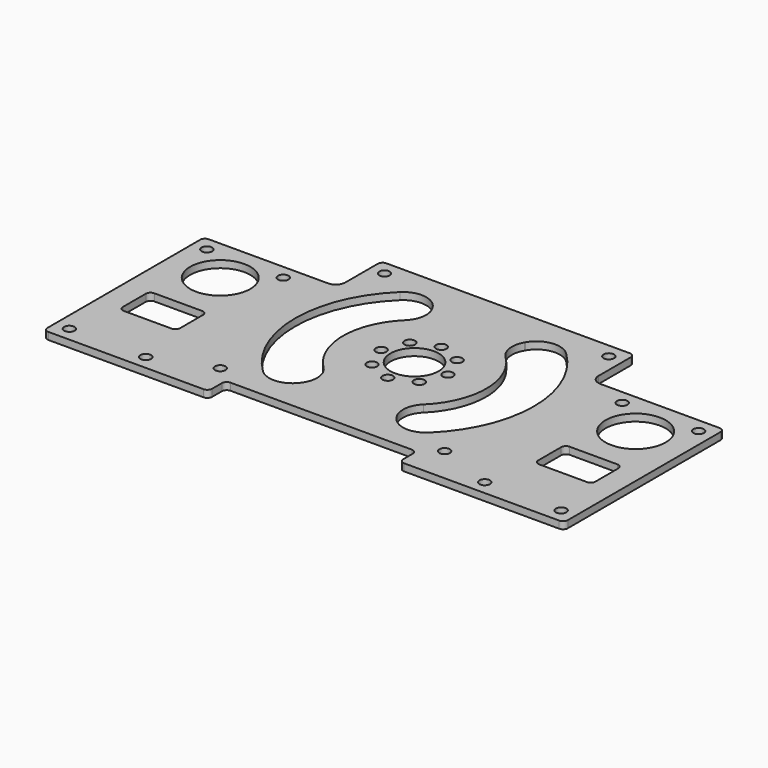
from build123d import *

# Parameters (mm, degrees)
F0_W     = 109
F0_H     = 70
F0_R     = 1.1
F0_R_2   = 6.3
F1_DEPTH = 1.5
F2_R     = 5.05
F2_R_2   = 1.1
F2_W     = 53
F2_H     = 10.5
F2_W_2   = 40
F2_H_2   = 10.5680569839
F3_DEPTH = 1.5
F4_W     = 34.5
F4_H     = 6
F5_DEPTH = 1.5
F6_R     = 1


with BuildPart() as f1:
    # F0 (on Top) → F1 (new body)
    with BuildSketch(Plane.XY):
        Rectangle(F0_W, F0_H)
        with Locations((-51.5, -26)):
            Circle(F0_R, mode=Mode.SUBTRACT)
        with Locations((-35.5, -26)):
            Circle(F0_R, mode=Mode.SUBTRACT)
        with Locations((-23.5, -21.5)):
            Circle(F0_R, mode=Mode.SUBTRACT)
        with BuildLine():
            ThreePointArc((-37.5, -14.5), (-37.7928932188, -15.2071067812), (-38.5, -15.5))
            Line((-38.5, -15.5), (-48.5, -15.5))
            ThreePointArc((-48.5, -15.5), (-49.2071067812, -15.2071067812), (-49.5, -14.5))
            Line((-49.5, -14.5), (-49.5, -8.5))
            ThreePointArc((-49.5, -8.5), (-49.2071067812, -7.7928932188), (-48.5, -7.5))
            Line((-48.5, -7.5), (-38.5, -7.5))
            ThreePointArc((-38.5, -7.5), (-37.7928932188, -7.7928932188), (-37.5, -8.5))
            Line((-37.5, -8.5), (-37.5, -14.5))
        make_face(mode=Mode.SUBTRACT)
        with Locations((23.5, -21.5)):
            Circle(F0_R, mode=Mode.SUBTRACT)
        with Locations((35.5, -26)):
            Circle(F0_R, mode=Mode.SUBTRACT)
        with Locations((51.5, -26)):
            Circle(F0_R, mode=Mode.SUBTRACT)
        with BuildLine():
            Line((38.5, -7.5), (48.5, -7.5))
            ThreePointArc((48.5, -7.5), (49.2071067812, -7.7928932188), (49.5, -8.5))
            Line((49.5, -8.5), (49.5, -14.5))
            ThreePointArc((49.5, -14.5), (49.2071067812, -15.2071067812), (48.5, -15.5))
            Line((48.5, -15.5), (38.5, -15.5))
            ThreePointArc((38.5, -15.5), (37.7928932188, -15.2071067812), (37.5, -14.5))
            Line((37.5, -14.5), (37.5, -8.5))
            ThreePointArc((37.5, -8.5), (37.7928932188, -7.7928932188), (38.5, -7.5))
        make_face(mode=Mode.SUBTRACT)
        with Locations((-43.5, 3.5)):
            Circle(F0_R_2, mode=Mode.SUBTRACT)
        with Locations((-51.5, 10)):
            Circle(F0_R, mode=Mode.SUBTRACT)
        with Locations((-35.5, 10)):
            Circle(F0_R, mode=Mode.SUBTRACT)
        with Locations((-23.5, 21.5)):
            Circle(F0_R, mode=Mode.SUBTRACT)
        with Locations((43.5, 3.5)):
            Circle(F0_R_2, mode=Mode.SUBTRACT)
        with Locations((35.5, 10)):
            Circle(F0_R, mode=Mode.SUBTRACT)
        with Locations((51.5, 10)):
            Circle(F0_R, mode=Mode.SUBTRACT)
        with Locations((23.5, 21.5)):
            Circle(F0_R, mode=Mode.SUBTRACT)
    extrude(amount=F1_DEPTH)

    # F2 (on face) → F3 (cut, through all)
    with BuildSketch(Plane.XY.offset(1.5)):
        Circle(F2_R)
        with Locations((0, 7)):
            Circle(F2_R_2)
        with Locations((-4.9497474683, 4.9497474683)):
            Circle(F2_R_2)
        with Locations((-7, 0)):
            Circle(F2_R_2)
        with Locations((-4.9497474683, -4.9497474683)):
            Circle(F2_R_2)
        with Locations((0, -7)):
            Circle(F2_R_2)
        with Locations((4.9497474683, -4.9497474683)):
            Circle(F2_R_2)
        with Locations((7, 0)):
            Circle(F2_R_2)
        with Locations((4.9497474683, 4.9497474683)):
            Circle(F2_R_2)
        with BuildLine():
            ThreePointArc((-9.7467943448, 16.8819430161), (-13.3130208521, 19.2849078273), (-17.4008940589, 17.9501778808))
            ThreePointArc((-17.4008940589, 17.9501778808), (-25, 0), (-17.4008940589, -17.9501778808))
            ThreePointArc((-17.4008940589, -17.9501778808), (-13.3130208521, -19.2849078273), (-9.7467943448, -16.8819430161))
            Line((-9.7467943448, -16.8819430161), (-9.643650761, -16.7032930885))
            ThreePointArc((-9.643650761, -16.7032930885), (-9.0333585083, -13.5821275803), (-10.4677200298, -10.7436882577))
            ThreePointArc((-10.4677200298, -10.7436882577), (-15, 0), (-10.4677200298, 10.7436882577))
            ThreePointArc((-10.4677200298, 10.7436882577), (-9.0333585083, 13.5821275803), (-9.643650761, 16.7032930885))
            Line((-9.643650761, 16.7032930885), (-9.7467943448, 16.8819430161))
        make_face()
        with BuildLine():
            ThreePointArc((17.4008940589, 17.9501778808), (13.3130208521, 19.2849078273), (9.7467943448, 16.8819430161))
            Line((9.7467943448, 16.8819430161), (9.643650761, 16.7032930885))
            ThreePointArc((9.643650761, 16.7032930885), (9.0333585083, 13.5821275803), (10.4677200298, 10.7436882577))
            ThreePointArc((10.4677200298, 10.7436882577), (15, 0), (10.4677200298, -10.7436882577))
            ThreePointArc((10.4677200298, -10.7436882577), (9.0333585083, -13.5821275803), (9.643650761, -16.7032930885))
            Line((9.643650761, -16.7032930885), (9.7467943448, -16.8819430161))
            ThreePointArc((9.7467943448, -16.8819430161), (13.3130208521, -19.2849078273), (17.4008940589, -17.9501778808))
            ThreePointArc((17.4008940589, -17.9501778808), (25, 0), (17.4008940589, 17.9501778808))
        make_face()
        with BuildLine():
            Line((-26.5, 35), (-54.5, 35))
            Line((-54.5, 35), (-54.5, 13))
            Line((-54.5, 13), (-28.5, 13))
            ThreePointArc((-28.5, 13), (-27.0857864376, 13.5857864376), (-26.5, 15))
            Line((-26.5, 15), (-26.5, 24.5))
            Line((-26.5, 24.5), (-26.5, 35))
        make_face()
        with Locations((0, 29.75)):
            Rectangle(F2_W, F2_H)
        with BuildLine():
            Line((54.5, 35), (26.5, 35))
            Line((26.5, 35), (26.5, 24.5))
            Line((26.5, 24.5), (26.5, 15))
            ThreePointArc((26.5, 15), (27.0857864376, 13.5857864376), (28.5, 13))
            Line((28.5, 13), (54.5, 13))
            Line((54.5, 13), (54.5, 35))
        make_face()
        with Locations((0, -29.7159715081)):
            Rectangle(F2_W_2, F2_H_2)
    extrude(amount=-F3_DEPTH, mode=Mode.SUBTRACT)

    # F4 (on face) → F5 (cut, through all)
    with BuildSketch(Plane.XY.offset(1.5)):
        with Locations((-37.25, -32)):
            Rectangle(F4_W, F4_H)
        with Locations((37.25, -32)):
            Rectangle(F4_W, F4_H)
    extrude(amount=-F5_DEPTH, mode=Mode.SUBTRACT)

    # F6
    f6_edges = [f1.edges().sort_by_distance(p)[0] for p in [
        (-54.5, -29, 0.75),
        (-20, -29, 0.75),
        (20, -29, 0.75),
        (54.5, -29, 0.75),
        (-20, -24.431943, 0.75),
        (20, -24.431943, 0.75),
        (54.5, 13, 0.75),
        (26.5, 24.5, 0.75),
        (-26.5, 24.5, 0.75),
        (-54.5, 13, 0.75),
    ]]
    fillet(f6_edges, radius=F6_R)


solid = f1.part
